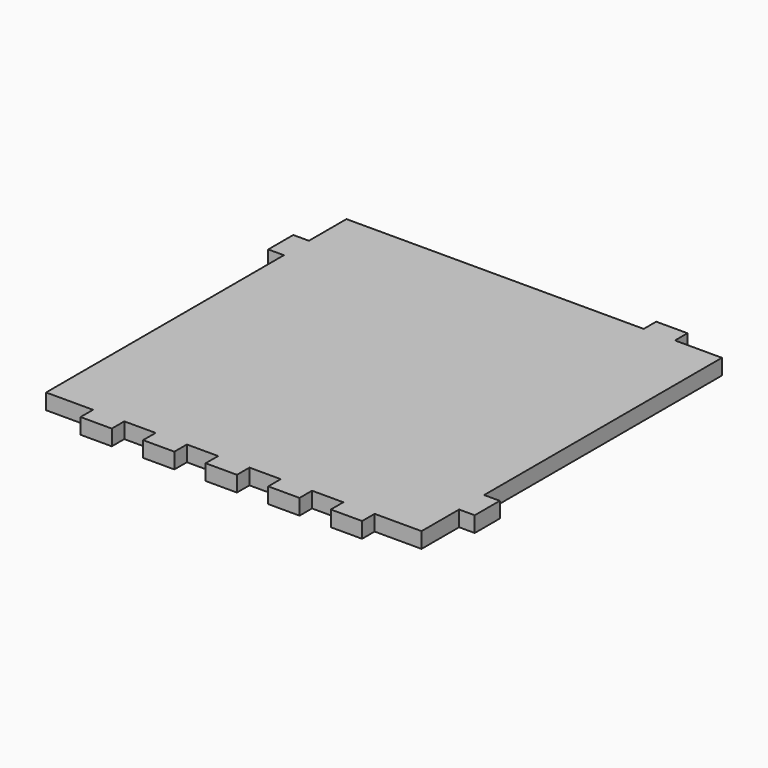
from build123d import *

# Parameters (mm, degrees)
F0_W     = 10
F0_H     = 5
F0_W_2   = 5
F0_H_2   = 10
F1_DEPTH = 5


with BuildPart() as f1:
    # F0 (on Top) → F1 (new body)
    with BuildSketch(Plane.XY):
        Polygon((60, -35), (60, 60), (45, 60), (35, 60), (-60, 60), (-60, 45), (-60, 35), (-60, -60), (-45, -60), (-35, -60), (-25, -60), (-15, -60), (-5, -60), (5, -60), (15, -60), (25, -60), (35, -60), (45, -60), (60, -60), (60, -45), align=None)
        with Locations((40, 62.5)):
            Rectangle(F0_W, F0_H)
        with Locations((62.5, -40)):
            Rectangle(F0_W_2, F0_H_2)
        with Locations((-62.5, 40)):
            Rectangle(F0_W_2, F0_H_2)
        with Locations((40, -62.5)):
            Rectangle(F0_W, F0_H)
        with Locations((20, -62.5)):
            Rectangle(F0_W, F0_H)
        with Locations((-40, -62.5)):
            Rectangle(F0_W, F0_H)
        with Locations((0, -62.5)):
            Rectangle(F0_W, F0_H)
        with Locations((-20, -62.5)):
            Rectangle(F0_W, F0_H)
    extrude(amount=F1_DEPTH)


solid = f1.part
